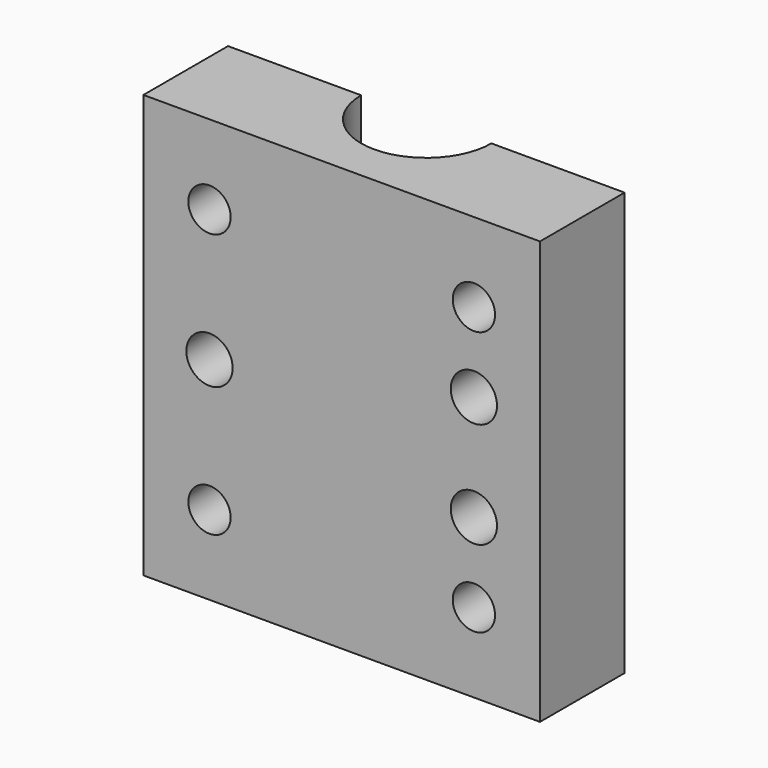
from build123d import *

# Parameters (mm, degrees)
SKETCH063_W     = 30
SKETCH063_H     = 32
SKETCH063_R     = 1.75
PAD039_DEPTH    = 8
SKETCH064_R     = 4.925
POCKET025_DEPTH = 38
SKETCH065_R     = 1.6
POCKET026_DEPTH = 10


with BuildPart() as part:
    # Sketch063 → Pad039 (new body)
    with BuildSketch(Plane.XZ):
        Rectangle(SKETCH063_W, SKETCH063_H)
        with Locations((-10, 0)):
            Circle(SKETCH063_R, mode=Mode.SUBTRACT)
        with Locations((10, 4)):
            Circle(SKETCH063_R, mode=Mode.SUBTRACT)
        with Locations((10, -4)):
            Circle(SKETCH063_R, mode=Mode.SUBTRACT)
    extrude(amount=PAD039_DEPTH)

    # Sketch064 (on Face3 of Pad039) → Pocket025 (cut)
    with BuildSketch(Plane(origin=(0, 0, -16), x_dir=(1, 0, 0), z_dir=(0, 0, -1))):
        Circle(SKETCH064_R)
    extrude(amount=-POCKET025_DEPTH, mode=Mode.SUBTRACT)

    # Sketch065 (on Face2 of Pocket025) → Pocket026 (cut)
    with BuildSketch(Plane(origin=(0, 0, 0), x_dir=(1, 0, 0), z_dir=(0, 1, 0))):
        with Locations((26.925, 5)):
            Circle(SKETCH065_R)
        with Locations((-10, 10)):
            Circle(SKETCH065_R)
        with Locations((10, 10)):
            Circle(SKETCH065_R)
        with Locations((10, -10)):
            Circle(SKETCH065_R)
        with Locations((-10, -10)):
            Circle(SKETCH065_R)
    extrude(amount=-POCKET026_DEPTH, mode=Mode.SUBTRACT)


with BuildPart() as part_1:
    # Body011 placement: moved
    add(part.part.moved(Location((-1.1, -53.7, 39.5))))


solid = part_1.part
